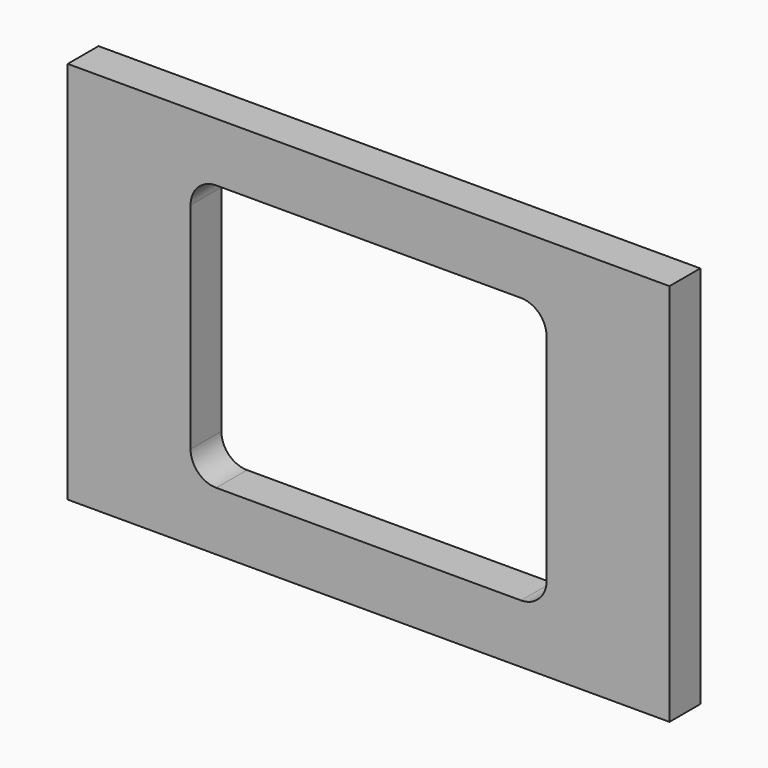
from build123d import *

# Parameters (mm, degrees)
F0_W     = 46.9
F0_H     = 29.9
F1_DEPTH = 3


with BuildPart() as f1:
    # F0 (on Front) → F1 (new body)
    with BuildSketch(Plane.XZ):
        Rectangle(F0_W, F0_H)
        with BuildLine():
            Line((11.875, -10.375), (-11.875, -10.375))
            ThreePointArc((-11.875, -10.375), (-13.289214, -9.789214), (-13.875, -8.375))
            Line((-13.875, -8.375), (-13.875, 8.375))
            ThreePointArc((-13.875, 8.375), (-13.289214, 9.789214), (-11.875, 10.375))
            Line((-11.875, 10.375), (11.875, 10.375))
            ThreePointArc((11.875, 10.375), (13.289214, 9.789214), (13.875, 8.375))
            Line((13.875, 8.375), (13.875, -8.375))
            ThreePointArc((13.875, -8.375), (13.289214, -9.789214), (11.875, -10.375))
        make_face(mode=Mode.SUBTRACT)
    extrude(amount=F1_DEPTH)


solid = f1.part
